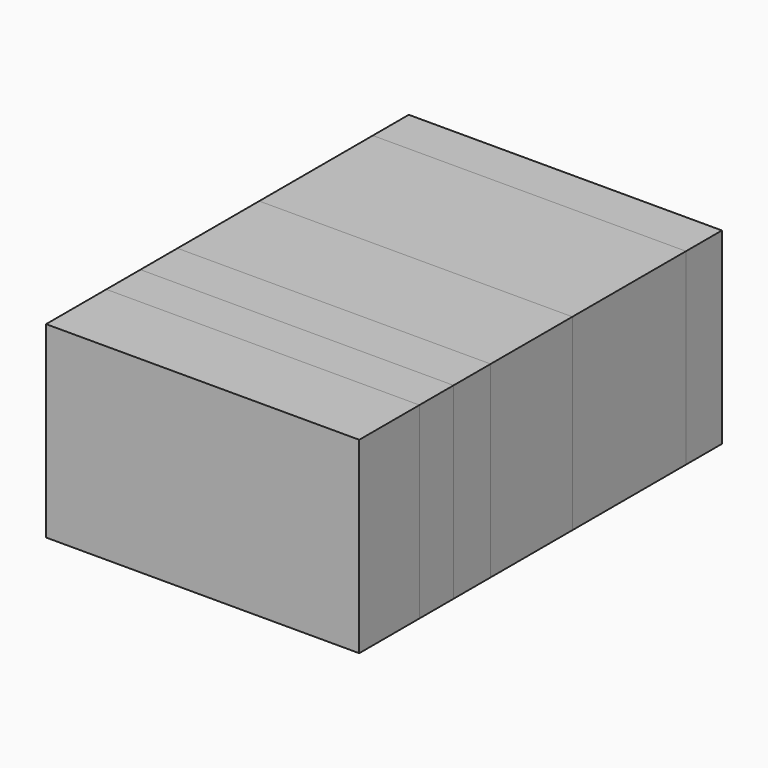
from build123d import *

# Parameters (mm, degrees)
F1_W     = 163.21
F1_H     = 300
F2_DEPTH = 250
F1_W_2   = 73.93
F3_DEPTH = 250
F1_W_3   = 68.1
F4_DEPTH = 250
F1_W_4   = 120.16
F5_DEPTH = 250
F0_W     = 71.76
F0_H     = 300
F6_DEPTH = 250
F1_W_5   = 226.68
F8_DEPTH = 250


with BuildPart() as f2:
    # F1 (on face) → F2 (new body, symmetric)
    with BuildSketch(Plane.YZ):
        with Locations((-380.045, 67.8092256188)):
            Rectangle(F1_W, F1_H)
    extrude(amount=F2_DEPTH, both=True)


with BuildPart() as f3:
    # F1 (on face) → F3 (new body, symmetric)
    with BuildSketch(Plane.YZ):
        with Locations((-498.615, 67.8092256188)):
            Rectangle(F1_W_2, F1_H)
    extrude(amount=F3_DEPTH, both=True)


with BuildPart() as f4:
    # F1 (on face) → F4 (new body, symmetric)
    with BuildSketch(Plane.YZ):
        with Locations((-569.63, 67.8092256188)):
            Rectangle(F1_W_3, F1_H)
    extrude(amount=F4_DEPTH, both=True)


with BuildPart() as f5:
    # F1 (on face) → F5 (new body, symmetric)
    with BuildSketch(Plane.YZ):
        with Locations((-663.76, 67.8092256188)):
            Rectangle(F1_W_4, F1_H)
    extrude(amount=F5_DEPTH, both=True)


with BuildPart() as f6:
    # F0 (on Right) → F6 (new body, symmetric)
    with BuildSketch(Plane.YZ):
        with Locations((-35.88, 67.8092256188)):
            Rectangle(F0_W, F0_H)
    extrude(amount=F6_DEPTH, both=True)


with BuildPart() as f8:
    # F1 (on face) → F8 (new body, symmetric)
    with BuildSketch(Plane.YZ):
        with Locations((-185.1, 67.8092256188)):
            Rectangle(F1_W_5, F1_H)
    extrude(amount=F8_DEPTH, both=True)


solid = Compound([f2.part, f3.part, f4.part, f5.part, f6.part, f8.part])
